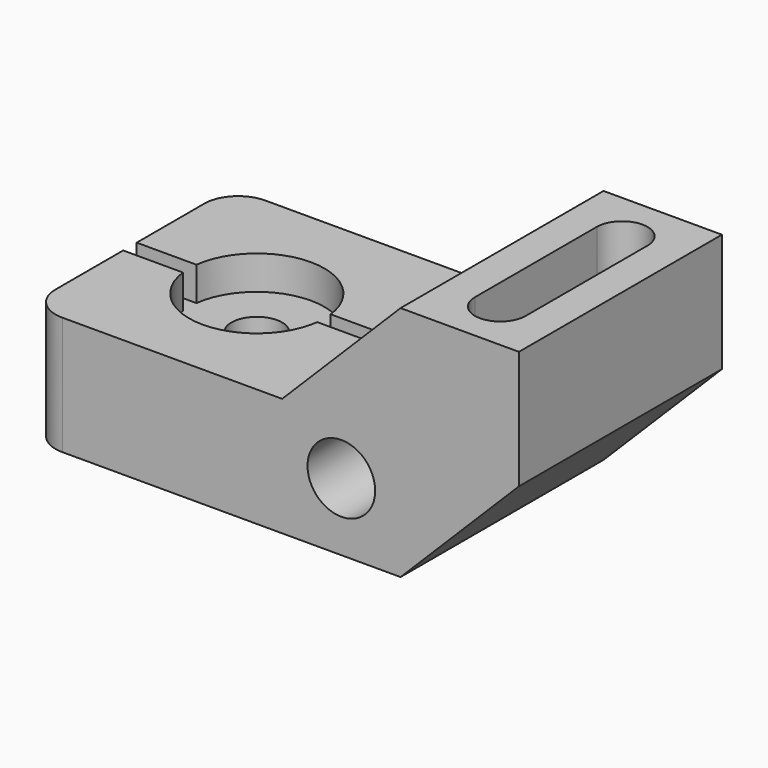
from build123d import *

# Parameters (mm, degrees)
F1_DEPTH       = 76.2
F3_D           = 20.32
F5_DEPTH       = 27.94
F7_D           = 15.24
F7_CBORE_D     = 40.64
F7_CBORE_DEPTH = 10.16
F9_DEPTH       = 10.16
F10_R          = 10.16


with BuildPart() as f1:
    # F0 (on Front) → F1 (new body)
    with BuildSketch(Plane.XZ):
        Polygon((0, 35.56), (0, 0), (111.76, 0), (147.32, 35.56), (147.32, 71.12), (111.76, 71.12), (76.2, 35.56), align=None)
    extrude(amount=-F1_DEPTH)

    # F3 (through all)
    with Locations(Plane.XZ):
        with Locations((93.98, 20.32)):
            Hole(F3_D / 2)

    # F4 (on face) → F5 (cut)
    with BuildSketch(Plane.XY.offset(71.12)):
        with BuildLine():
            ThreePointArc((137.16, 60.96), (129.54, 68.58), (121.92, 60.96))
            Line((121.92, 60.96), (121.92, 15.24))
            ThreePointArc((121.92, 15.24), (129.54, 7.62), (137.16, 15.24))
            Line((137.16, 15.24), (137.16, 60.96))
        make_face()
    extrude(amount=-F5_DEPTH, mode=Mode.SUBTRACT)

    # F7 (through all)
    with Locations(Plane.XY.offset(35.56)):
        with Locations((38.1, 38.1)):
            CounterBoreHole(F7_D / 2, F7_CBORE_D / 2, F7_CBORE_DEPTH)

    # F8 (on face) → F9 (cut)
    with BuildSketch(Plane.XY.offset(35.56)):
        with BuildLine():
            Line((0, 40.64), (0, 38.1))
            Line((0, 38.1), (0, 35.56))
            Line((0, 35.56), (17.9393750097, 35.56))
            ThreePointArc((17.9393750097, 35.56), (17.78, 38.1), (17.9393750097, 40.64))
            Line((17.9393750097, 40.64), (0, 40.64))
        make_face()
        with BuildLine():
            Line((76.2, 40.64), (58.2606249903, 40.64))
            ThreePointArc((58.2606249903, 40.64), (58.3801171077, 39.3724975829), (58.42, 38.1))
            ThreePointArc((58.42, 38.1), (58.3801171077, 36.8275024171), (58.2606249903, 35.56))
            Line((58.2606249903, 35.56), (76.2, 35.56))
            Line((76.2, 35.56), (76.2, 38.1))
            Line((76.2, 38.1), (76.2, 40.64))
        make_face()
    extrude(amount=-F9_DEPTH, mode=Mode.SUBTRACT)

    # F10
    f10_edges = [f1.edges().sort_by_distance(p)[0] for p in [
        (0, 76.2, 17.78),
        (0, 0, 17.78),
    ]]
    fillet(f10_edges, radius=F10_R)


solid = f1.part
